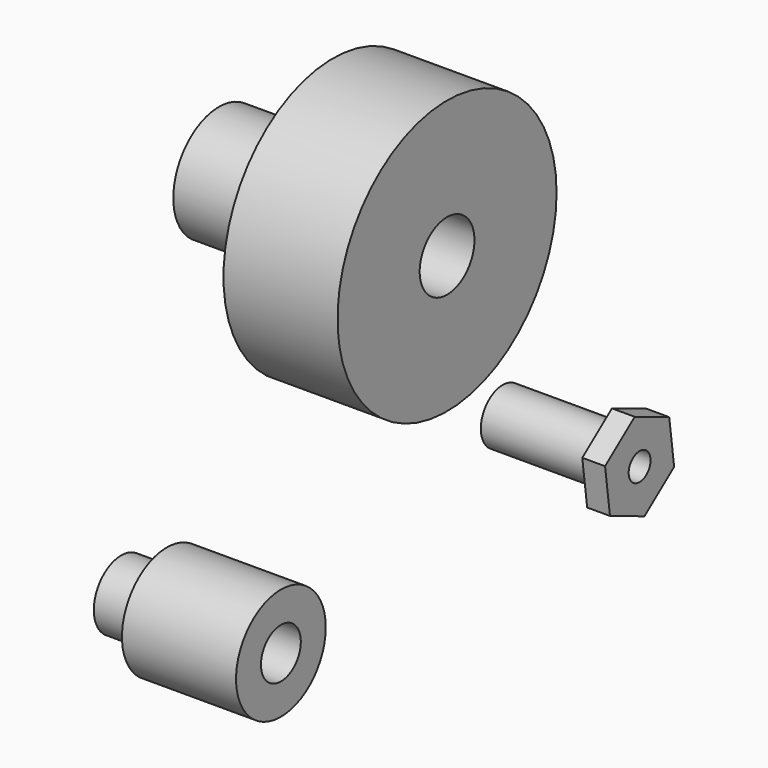
from build123d import *

# Parameters (mm, degrees)
F0_R      = 12.5
F0_R_2    = 6
F1_DEPTH  = 25
F2_R      = 30
F2_R_2    = 7.5
F3_DEPTH  = 25
F4_R      = 2.25
F5_DEPTH  = 36.7
F6_R      = 7.5
F6_R_2    = 3
F7_DEPTH  = 10
F8_R      = 12.2847556344
F8_R_2    = 5.4605261275
F9_DEPTH  = 25
F10_R     = 6
F10_R_2   = 3
F11_DEPTH = 25
F12_DEPTH = 9.3
F13_R     = 6
F14_DEPTH = 9.4
F16_R     = 6
F16_R_2   = 3
F17_DEPTH = 5


with BuildPart() as f1:
    # F0 (on Right) → F1 (new body)
    with BuildSketch(Plane.YZ):
        Circle(F0_R)
        Circle(F0_R_2, mode=Mode.SUBTRACT)
    extrude(amount=-F1_DEPTH)

    # F2 (on face) → F3 (join)
    with BuildSketch(Plane.YZ):
        Circle(F2_R)
        Circle(F2_R_2, mode=Mode.SUBTRACT)
    extrude(amount=F3_DEPTH)

    # F4 (on Top) → F5 (cut)
    with BuildSketch(Plane.XY):
        with Locations((12, 0)):
            Circle(F4_R)
    extrude(amount=-F5_DEPTH, mode=Mode.SUBTRACT)


with BuildPart() as f7:
    # F6 (on Right) → F7 (new body)
    with BuildSketch(Plane.YZ):
        with Locations((-58.0251142383, -49.8188361526)):
            Circle(F6_R)
        with Locations((-58.0251142383, -49.8188361526)):
            Circle(F6_R_2, mode=Mode.SUBTRACT)
    extrude(amount=F7_DEPTH)

    # F8 (on face) → F9 (join)
    with BuildSketch(Plane.YZ.offset(10)):
        with Locations((-58.0251142383, -49.8188361526)):
            Circle(F8_R)
        with Locations((-58.0251142383, -49.8188361526)):
            Circle(F8_R_2, mode=Mode.SUBTRACT)
    extrude(amount=F9_DEPTH)

    # F12 (add): a face of the model
    f12_faces = [f7.faces().sort_by_distance(p)[0] for p in [
        (10, -63.3311933636, -49.8188361526),
    ]]
    extrude(f12_faces, amount=F12_DEPTH)


with BuildPart() as f11:
    # F10 (on Right) → F11 (new body)
    with BuildSketch(Plane.YZ):
        with Locations((46.4974045753, -57.921551168)):
            Circle(F10_R)
        with Locations((46.4974045753, -57.921551168)):
            Circle(F10_R_2, mode=Mode.SUBTRACT)
    extrude(amount=F11_DEPTH)

    # F16 (on face) → F17 (join)
    with BuildSketch(Plane.YZ.offset(25)):
        Polygon((47.8394083717, -68.0694858352), (55.9567756913, -61.833309122), (54.6147718949, -51.6853744548), (45.155400779, -47.7736165007), (37.0380334594, -54.009793214), (38.3800372558, -64.1577278812), align=None)
        with Locations((46.4974045753, -57.921551168)):
            Circle(F16_R, mode=Mode.SUBTRACT)
        with Locations((46.4974045753, -57.921551168)):
            Circle(F16_R)
        with Locations((46.4974045753, -57.921551168)):
            Circle(F16_R_2, mode=Mode.SUBTRACT)
    extrude(amount=F17_DEPTH)


with BuildPart() as f14:
    # F13 (on face) → F14 (new body)
    with BuildSketch(Plane.YZ.offset(25)):
        Polygon((31.8439276661, -58.8649387834), (39.9876637613, -71.0835282329), (54.6411406705, -70.1401406175), (61.1508814846, -56.9781635526), (53.0071453894, -44.7595741031), (38.3536684802, -45.7029617185), align=None)
        with Locations((46.4974045753, -57.921551168)):
            Circle(F13_R, mode=Mode.SUBTRACT)
    extrude(amount=F14_DEPTH)


solid = Compound([f1.part, f7.part, f11.part])
